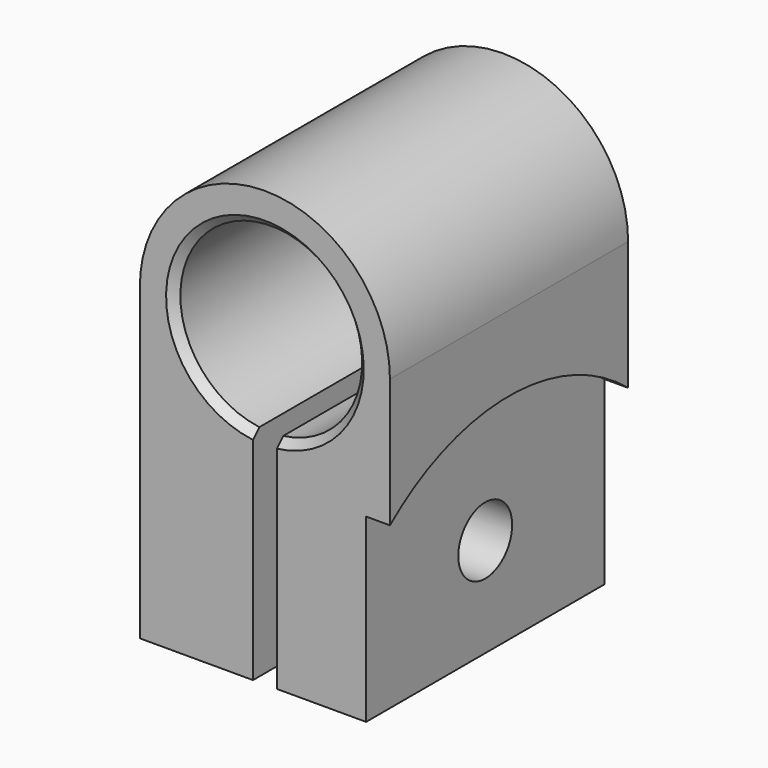
from build123d import *

# Parameters (mm, degrees)
F1_DEPTH = 19.05
F2_SIZE  = 0.508
F4_DEPTH = 1.524
F6_D     = 4.3053
F6_DEPTH = 5.842
F6_TIP   = 1.2934426115


with BuildPart() as f1:
    # F0 (on Front) → F1 (new body)
    with BuildSketch(Plane.XZ):
        with BuildLine():
            Line((8.001, 0), (8.001, 19.812))
            ThreePointArc((8.001, 19.812), (-0.0717867798, 27.8126779499), (-7.9997118256, 19.6684322195))
            Line((-7.9997118256, 19.6684322195), (-7.9997118256, 0))
            Line((-7.9997118256, 0), (-0.762, 0))
            Line((-0.762, 0), (-0.762, 14.0455286734))
            ThreePointArc((-0.762, 14.0455286734), (0, 25.6286), (0.762, 14.0455286734))
            Line((0.762, 14.0455286734), (0.762, 0))
            Line((0.762, 0), (8.001, 0))
        make_face()
    extrude(amount=F1_DEPTH)

    # F2
    f2_edges = [f1.edges().sort_by_distance(p)[0] for p in [
        (0, -19.05, 25.6286),
    ]]
    chamfer(f2_edges, length=F2_SIZE)

    # F3 (on face) → F4 (cut)
    with BuildSketch(Plane.YZ.offset(8.001)):
        with BuildLine():
            Line((0, 0), (0, 11.5695536215))
            ThreePointArc((0, 11.5695536215), (-9.525, 14.986), (-19.05, 11.5695536215))
            Line((-19.05, 11.5695536215), (-19.05, 0))
            Line((-19.05, 0), (0, 0))
        make_face()
    extrude(amount=-F4_DEPTH, mode=Mode.SUBTRACT)

    # F6
    with Locations(Plane.YZ.offset(6.477)):
        with Locations((-9.525, 6.35)):
            Hole(F6_D / 2, depth=F6_DEPTH)
            with Locations((0, 0, -(F6_DEPTH + F6_TIP / 2))):  # 118° drill point
                Cone(0, F6_D / 2, F6_TIP, mode=Mode.SUBTRACT)


solid = f1.part
